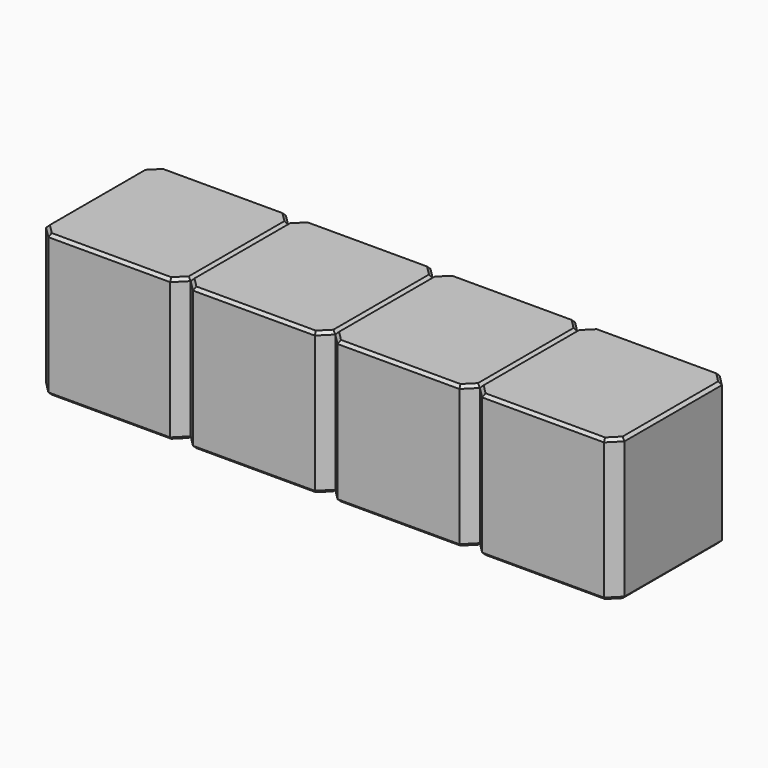
from build123d import *

# Parameters (mm, degrees)
SKETCH208_W     = 2.54
SKETCH208_H     = 2.54
PAD063_DEPTH    = 2.5
CHAMFER014_SIZE = 0.2
CHAMFER013_SIZE = 0.05
ARRAY_X_COUNT   = 4
ARRAY_X_PITCH   = 2.54


with BuildPart() as array:
    # Sketch208 → Pad063 (new body)
    with BuildSketch(Plane.XY):
        Rectangle(SKETCH208_W, SKETCH208_H)
    extrude(amount=PAD063_DEPTH)

    # Chamfer014
    chamfer014_edges = [array.edges().sort_by_distance(p)[0] for p in [
        (1.27, -1.27, 1.25),
        (-1.27, -1.27, 1.25),
        (1.27, 1.27, 1.25),
        (-1.27, 1.27, 1.25),
    ]]
    chamfer(chamfer014_edges, length=CHAMFER014_SIZE)

    # Chamfer013
    chamfer013_edges = [array.edges().sort_by_distance(p)[0] for p in [
        (0, -1.27, 2.5),
        (-1.17, -1.17, 2.5),
        (1.17, -1.17, 2.5),
        (-1.27, 0, 2.5),
        (1.27, 0, 2.5),
        (-1.17, 1.17, 2.5),
        (1.17, 1.17, 2.5),
        (0, 1.27, 2.5),
        (0, -1.27, 0),
        (-1.17, -1.17, 0),
        (1.17, -1.17, 0),
        (-1.27, 0, 0),
        (1.27, 0, 0),
        (-1.17, 1.17, 0),
        (1.17, 1.17, 0),
        (0, 1.27, 0),
    ]]
    chamfer(chamfer013_edges, length=CHAMFER013_SIZE)


with BuildPart() as array_copy1:
    # Array X: instance of Array
    add(array.part.moved(Location(Vector(1, 0, 0) * (1 * ARRAY_X_PITCH))))


with BuildPart() as array_copy2:
    # Array X: instance of Array
    add(array.part.moved(Location(Vector(1, 0, 0) * (2 * ARRAY_X_PITCH))))


with BuildPart() as array_copy3:
    # Array X: instance of Array
    add(array.part.moved(Location(Vector(1, 0, 0) * (3 * ARRAY_X_PITCH))))


solid = Compound([array.part, array_copy1.part, array_copy2.part, array_copy3.part])
